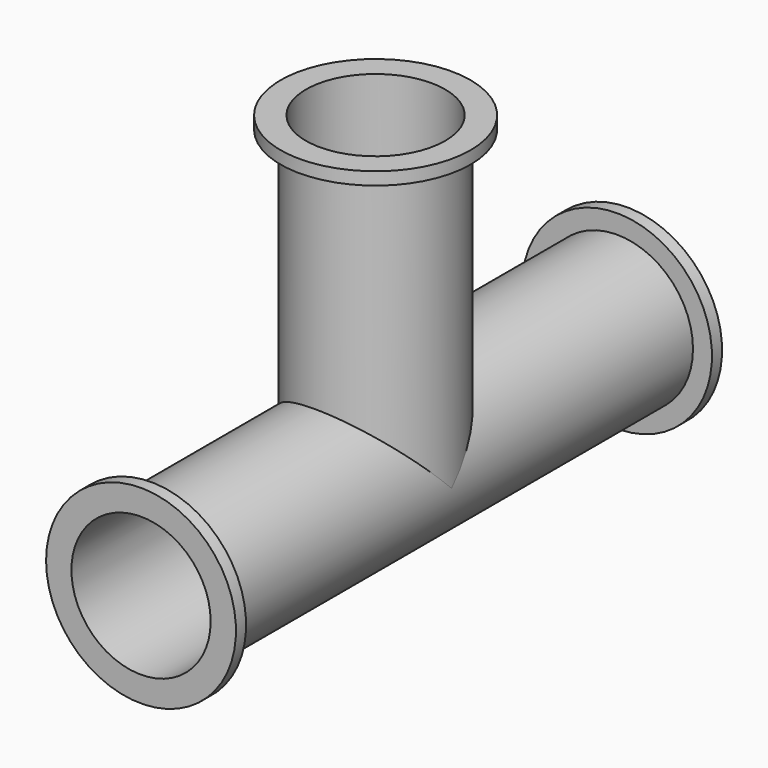
from build123d import *

# Parameters (mm, degrees)
F2_R      = 76.2
F5_DEPTH  = 609.6
F4_R      = 76.2
F6_DEPTH  = 304.8
F7_T      = -6.35
F7_2_T    = -6.35
F9_R      = 95.25
F9_R_2    = 76.2
F10_DEPTH = 12.7
F12_R     = 95.25
F12_R_2   = 76.2
F13_DEPTH = 12.7
F14_R     = 95.25
F14_R_2   = 76.2
F15_DEPTH = 12.7


with BuildPart() as f5:
    # F2 (on plane+point) → F5 (new body)
    with BuildSketch(Plane.XZ.offset(294.1361665726)):
        Circle(F2_R)
    extrude(amount=-F5_DEPTH)

    # F7
    f7_openings = [f5.faces().sort_by_distance(p)[0] for p in [
        (0, 315.463833, 0),
        (0, -294.136167, 0),
    ]]
    offset(amount=F7_T, openings=f7_openings)

    # F9 (on line) → F10 (join)
    with BuildSketch(Plane(origin=(0, -294.1361665726, 0), x_dir=(-1, 0, 0), z_dir=(0, 1, 0))):
        Circle(F9_R)
        Circle(F9_R_2, mode=Mode.SUBTRACT)
    extrude(amount=F10_DEPTH)

    # F12 (on line) → F13 (join)
    with BuildSketch(Plane(origin=(0, 315.4638334274, 0), x_dir=(-1, 0, 0), z_dir=(0, 1, 0))):
        Circle(F12_R)
        Circle(F12_R_2, mode=Mode.SUBTRACT)
    extrude(amount=-F13_DEPTH)



with BuildPart() as f6:
    # F4 (on plane+point) → F6 (new body)
    with BuildSketch(Plane.XY.offset(304.8)):
        Circle(F4_R)
    extrude(amount=-F6_DEPTH)

    # F7#2
    f7_2_openings = [f6.faces().sort_by_distance(p)[0] for p in [
        (0, 0, 304.8),
    ]]
    offset(amount=F7_2_T, openings=f7_2_openings)


with BuildPart() as f5_1:
    add(f5.part)

    add(f6.part)  # F15 merges F6
    # F14 (on plane+point) → F15 (join)
    with BuildSketch(Plane.XY.offset(304.8)):
        Circle(F14_R)
        Circle(F14_R_2, mode=Mode.SUBTRACT)
    extrude(amount=-F15_DEPTH)


solid = f5_1.part
